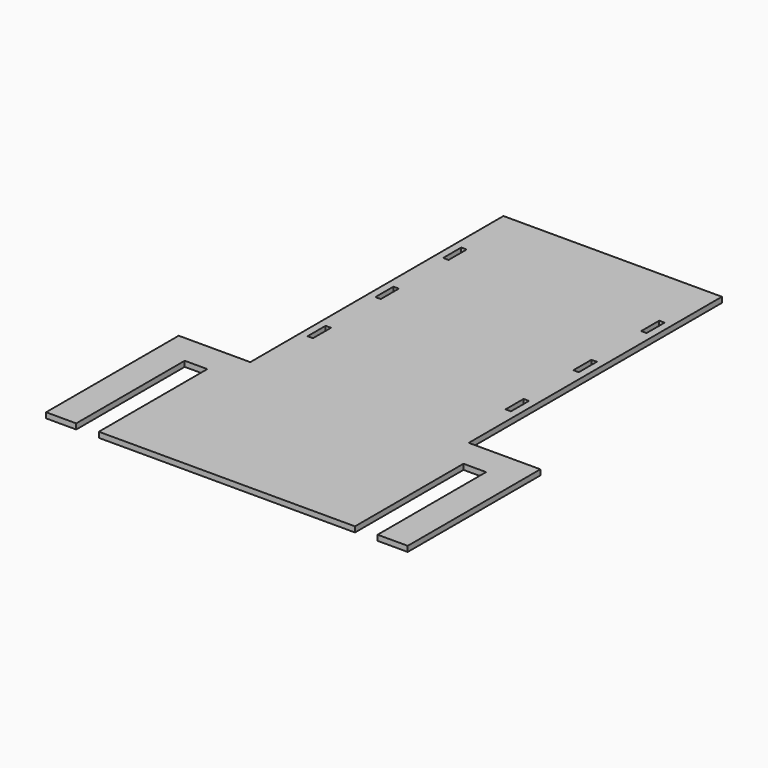
from build123d import *

# Parameters (mm, degrees)
F1_DEPTH = 18.288


with BuildPart() as f1:
    # F0 (on Top) → F1 (new body)
    with BuildSketch(Plane.XY):
        Polygon((1470.868362, 76.307702), (1229.568362, 76.307702), (1229.568362, -482.492298), (1331.168362, -482.492298), (1331.168362, -25.292298), (1407.368362, -25.292298), (1407.368362, -482.492298), (2270.968362, -482.492298), (2270.968362, -25.292298), (2347.168362, -25.292298), (2347.168362, -482.492298), (2448.768362, -482.492298), (2448.768362, 76.307702), (2207.468362, 76.307702), (2182.068362, 76.307702), (2182.068362, 285.857702), (2163.780362, 285.857702), (2163.780362, 362.057702), (2182.068362, 362.057702), (2182.068362, 571.607702), (2163.780362, 571.607702), (2163.780362, 647.807702), (2182.068362, 647.807702), (2182.068362, 857.357702), (2163.780362, 857.357702), (2163.780362, 933.557702), (2182.068362, 933.557702), (2182.068362, 1143.107702), (1496.268362, 1143.107702), (1496.268362, 933.557702), (1514.556362, 933.557702), (1514.556362, 857.357702), (1496.268362, 857.357702), (1496.268362, 647.807702), (1514.556362, 647.807702), (1514.556362, 571.607702), (1496.268362, 571.607702), (1496.268362, 362.057702), (1514.556362, 362.057702), (1514.556362, 285.857702), (1496.268362, 285.857702), (1496.268362, 76.307702), align=None)
        Polygon((1496.268362, 1143.107702), (1470.868362, 1143.107702), (1470.868362, 76.307702), (1496.268362, 76.307702), (1496.268362, 285.857702), (1496.268362, 362.057702), (1496.268362, 571.607702), (1496.268362, 647.807702), (1496.268362, 857.357702), (1496.268362, 933.557702), align=None)
        Polygon((2207.468362, 1143.107702), (2182.068362, 1143.107702), (2182.068362, 933.557702), (2182.068362, 857.357702), (2182.068362, 647.807702), (2182.068362, 571.607702), (2182.068362, 362.057702), (2182.068362, 285.857702), (2182.068362, 76.307702), (2207.468362, 76.307702), align=None)
    extrude(amount=F1_DEPTH)


solid = f1.part
